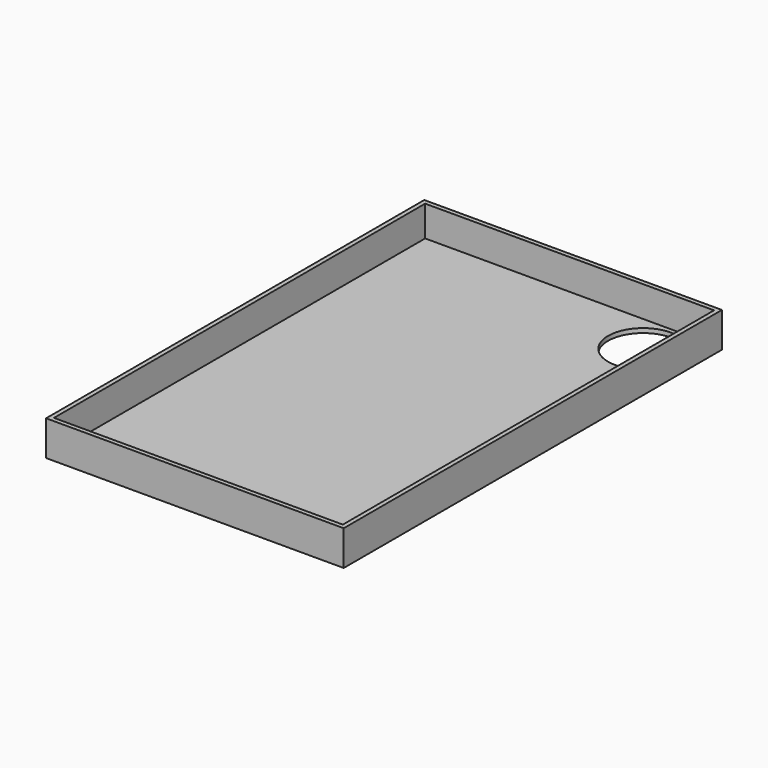
from build123d import *

# Parameters (mm, degrees)
F1_DEPTH = 40
F2_T     = -5
F4_D     = 80
F4_DEPTH = 60


with BuildPart() as f1:
    # F0 (on Top) → F1 (new body)
    with BuildSketch(Plane.XY):
        Polygon((-170, 270), (-170, 0), (-170, -270), (170, -270), (170, 270), align=None)
    extrude(amount=F1_DEPTH)

    # F2
    f2_openings = [f1.faces().sort_by_distance(p)[0] for p in [
        (0, 0, 40),
    ]]
    offset(amount=F2_T, openings=f2_openings)

    # F4
    with Locations(Plane.XY.offset(5)):
        with Locations((120, 220)):
            Hole(F4_D / 2, depth=F4_DEPTH)


solid = f1.part
